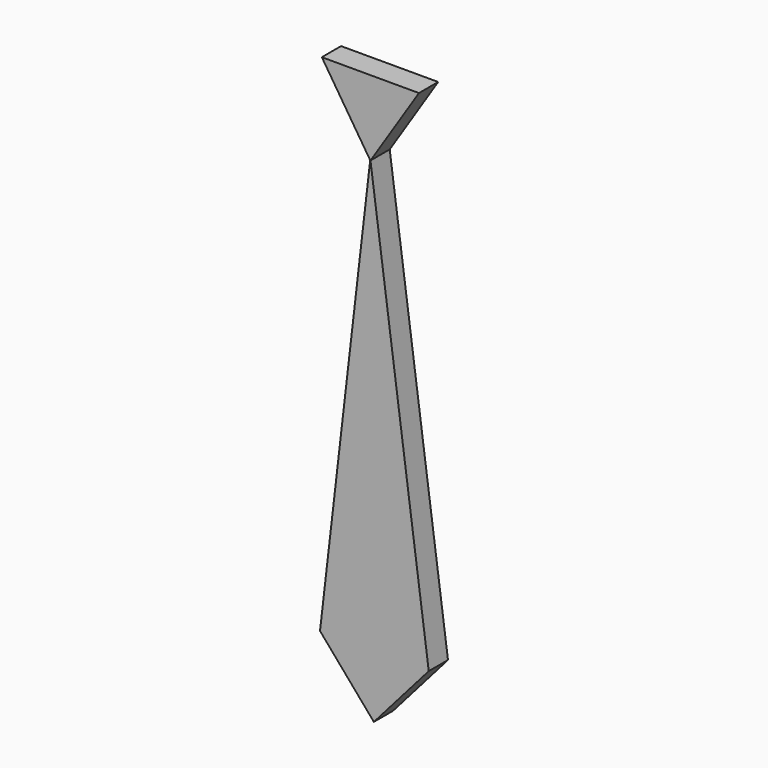
from build123d import *

# Parameters (mm, degrees)
F2_DEPTH = 3.1809043139


with BuildPart() as f2:
    # F1 (on Front) → F2 (new body)
    with BuildSketch(Plane.XZ):
        Polygon((-40.5762009323, -10.3727253154), (-48.3052432537, 46.7364154756), (-54.9582317472, -10.3727253154), (-47.8377714753, -18.6503641307), align=None)
    extrude(amount=F2_DEPTH)


with BuildPart() as f2b:
    # F0 (on Front) → F2, piece 2 (new body)
    with BuildSketch(Plane.XZ):
        Polygon((-41.872471571, 56.5150938928), (-54.7175705433, 56.5150938928), (-48.2950210571, 46.5566962957), align=None)
    extrude(amount=F2_DEPTH)


solid = Compound([f2.part, f2b.part])
